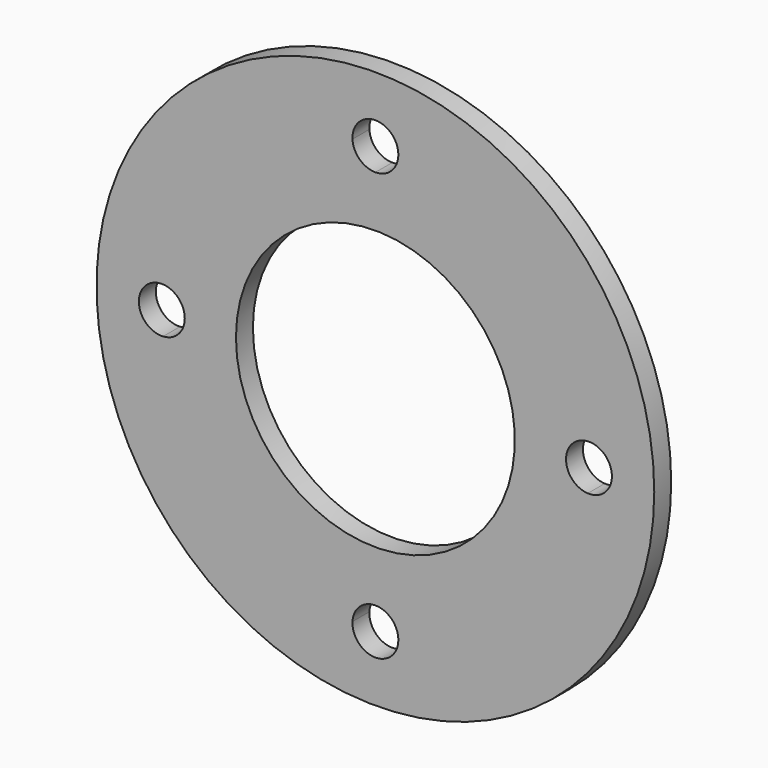
from build123d import *

# Parameters (mm, degrees)
F0_R     = 79
F1_DEPTH = 6
F2_R     = 39.5
F3_DEPTH = 6.001


with BuildPart() as f1:
    # F0 (on Front) → F1 (new body)
    with BuildSketch(Plane.XZ):
        Circle(F0_R)
        with BuildLine():
            ThreePointArc((6.490615, 60.150826), (42.77996, 42.77996), (60.150826, 6.490615))
            ThreePointArc((60.150826, 6.490615), (64.971039, 4.718031), (67, 0))
            ThreePointArc((67, 0), (64.971039, -4.718031), (60.150826, -6.490615))
            ThreePointArc((60.150826, -6.490615), (42.77996, -42.77996), (6.490615, -60.150826))
            ThreePointArc((6.490615, -60.150826), (6.497653, -60.32535), (6.5, -60.5))
            ThreePointArc((6.5, -60.5), (-0.17465, -66.997653), (-6.490615, -60.150826))
            ThreePointArc((-6.490615, -60.150826), (-42.77996, -42.77996), (-60.150826, -6.490615))
            ThreePointArc((-60.150826, -6.490615), (-67, 0), (-60.150826, 6.490615))
            ThreePointArc((-60.150826, 6.490615), (-42.77996, 42.77996), (-6.490615, 60.150826))
            ThreePointArc((-6.490615, 60.150826), (-0.17465, 66.997653), (6.5, 60.5))
            ThreePointArc((6.5, 60.5), (6.497653, 60.32535), (6.490615, 60.150826))
        make_face(mode=Mode.SUBTRACT)
        with BuildLine():
            ThreePointArc((60.150826, -6.490615), (54, 0), (60.150826, 6.490615))
            ThreePointArc((60.150826, 6.490615), (42.77996, 42.77996), (6.490615, 60.150826))
            ThreePointArc((6.490615, 60.150826), (4.471039, 55.781969), (0, 54))
            ThreePointArc((0, 54), (-4.471039, 55.781969), (-6.490615, 60.150826))
            ThreePointArc((-6.490615, 60.150826), (-42.77996, 42.77996), (-60.150826, 6.490615))
            ThreePointArc((-60.150826, 6.490615), (-55.781969, 4.471039), (-54, 0))
            ThreePointArc((-54, 0), (-55.781969, -4.471039), (-60.150826, -6.490615))
            ThreePointArc((-60.150826, -6.490615), (-42.77996, -42.77996), (-6.490615, -60.150826))
            ThreePointArc((-6.490615, -60.150826), (0, -54), (6.490615, -60.150826))
            ThreePointArc((6.490615, -60.150826), (42.77996, -42.77996), (60.150826, -6.490615))
        make_face()
    extrude(amount=F1_DEPTH)

    # F2 (on face) → F3 (cut, through all)
    with BuildSketch(Plane(origin=(0, 0, 0), x_dir=(-1, 0, 0), z_dir=(0, 1, 0))):
        Circle(F2_R)
    extrude(amount=-F3_DEPTH, mode=Mode.SUBTRACT)


solid = f1.part
